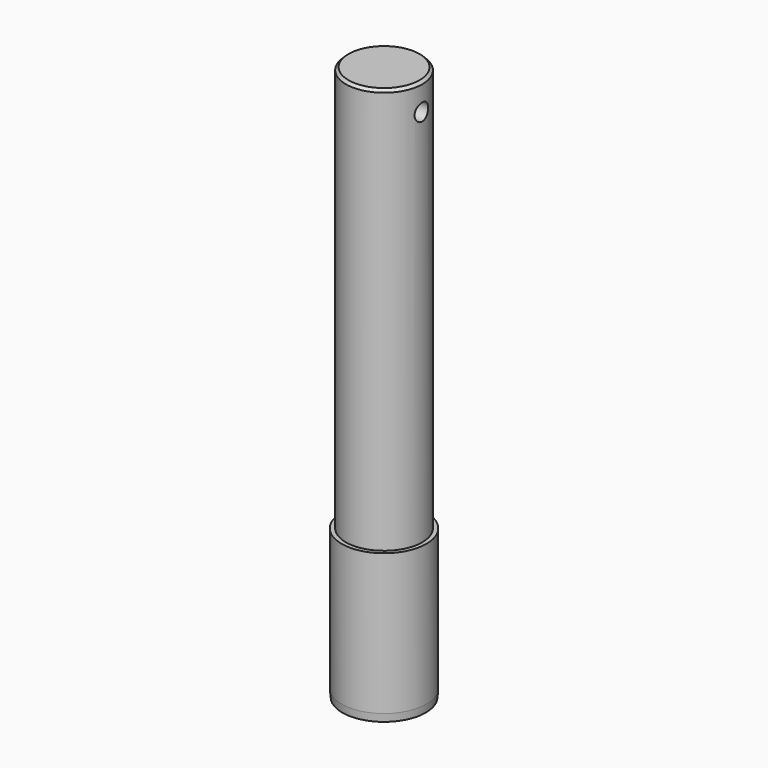
from build123d import *

# Parameters (mm, degrees)
F0_R     = 7.95655
F1_DEPTH = 27.94
F2_R     = 7.1755
F3_DEPTH = 76.2
F5_R     = 1.5875
F6_DEPTH = 12.7
F7_SIZE  = 0.508
F8_SIZE2 = 1.4516166425
F8_SIZE  = 0.127


with BuildPart() as f1:
    # F0 (on Top) → F1 (new body)
    with BuildSketch(Plane.XY):
        Circle(F0_R)
    extrude(amount=F1_DEPTH)

    # F2 (on face) → F3 (join)
    with BuildSketch(Plane.XY.offset(27.94)):
        Circle(F2_R)
    extrude(amount=F3_DEPTH)

    # F5 (on face) → F6 (cut, symmetric)
    with BuildSketch(Plane.YZ):
        with Locations((0, 99.06)):
            Circle(F5_R)
    extrude(amount=F6_DEPTH, both=True, mode=Mode.SUBTRACT)

    # F7
    f7_edges = [f1.edges().sort_by_distance(p)[0] for p in [
        (-7.1755, 0, 104.14),
    ]]
    chamfer(f7_edges, length=F7_SIZE)

    # F8
    f8_edges = [f1.edges().sort_by_distance(p)[0] for p in [
        (-7.95655, 0, 0),
    ]]
    f8_side = f1.faces().sort_by_distance((0, 0, 0))[0]
    chamfer(f8_edges, length=F8_SIZE, length2=F8_SIZE2, reference=f8_side)


solid = f1.part
